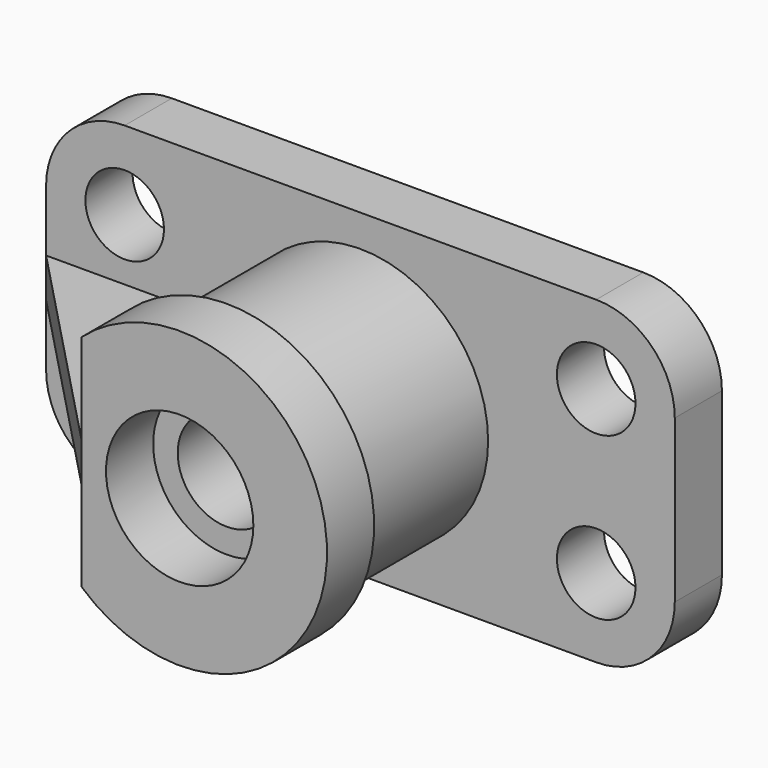
from build123d import *

# Parameters (mm, degrees)
F0_W      = 128
F0_H      = 65
F1_DEPTH  = 12
F2_R      = 16
F3_R      = 26
F4_DEPTH  = 34
F5_R      = 30
F6_DEPTH  = 12
F7_R      = 15
F8_DEPTH  = 12
F9_R      = 10
F10_DEPTH = 34
F12_DEPTH = 46
F13_W     = 44
F13_H     = 8
F14_DEPTH = 46
F16_DEPTH = 25
F17_R     = 8
F18_DEPTH = 25


with BuildPart() as f1:
    # F0 (on Front) → F1 (new body)
    with BuildSketch(Plane.XZ):
        with Locations((-64, 32.5)):
            Rectangle(F0_W, F0_H)
    extrude(amount=F1_DEPTH)

    # F2
    f2_edges = [f1.edges().sort_by_distance(p)[0] for p in [
        (-128, -6, 65),
        (-128, -6, 0),
        (0, -6, 65),
        (0, -6, 0),
    ]]
    fillet(f2_edges, radius=F2_R)

    # F3 (on face) → F4 (join)
    with BuildSketch(Plane.XZ.offset(12)):
        with Locations((-64, 32.5)):
            Circle(F3_R)
    extrude(amount=F4_DEPTH)

    # F5 (on face) → F6 (join)
    with BuildSketch(Plane.XZ.offset(46)):
        with Locations((-64, 32.5)):
            Circle(F5_R)
    extrude(amount=F6_DEPTH)

    # F7 (on face) → F8 (cut)
    with BuildSketch(Plane.XZ.offset(58)):
        with Locations((-64, 32.5)):
            Circle(F7_R)
    extrude(amount=-F8_DEPTH, mode=Mode.SUBTRACT)

    # F9 (on face) → F10 (cut)
    with BuildSketch(Plane.XZ.offset(46)):
        with Locations((-64, 32.5)):
            Circle(F9_R)
    extrude(amount=-F10_DEPTH, mode=Mode.SUBTRACT)

    # F11 (on face) → F12 (cut)
    with BuildSketch(Plane.XZ.offset(58)):
        with BuildLine():
            Line((-84, 10.13932), (-84, 32.5))
            Line((-84, 32.5), (-84, 54.86068))
            ThreePointArc((-84, 54.86068), (-94, 32.5), (-84, 10.13932))
        make_face()
    extrude(amount=-F12_DEPTH, mode=Mode.SUBTRACT)

    # F13 (on face) → F14 (join)
    with BuildSketch(Plane.XZ.offset(12)):
        with Locations((-106, 32.5)):
            Rectangle(F13_W, F13_H)
    extrude(amount=F14_DEPTH)

    # F15 (on face) → F16 (cut)
    with BuildSketch(Plane(origin=(0, 0, 28.5), x_dir=(1, 0, 0), z_dir=(0, 0, -1))):
        Polygon((-128, 12), (-84, 58), (-128, 58), align=None)
    extrude(amount=-F16_DEPTH, mode=Mode.SUBTRACT)

    # F17 (on face) → F18 (cut)
    with BuildSketch(Plane.XZ.offset(12)):
        with Locations((-16, 49)):
            Circle(F17_R)
        with Locations((-16, 16)):
            Circle(F17_R)
        with Locations((-112, 49)):
            Circle(F17_R)
        with Locations((-112, 16)):
            Circle(F17_R)
    extrude(amount=-F18_DEPTH, mode=Mode.SUBTRACT)


solid = f1.part
